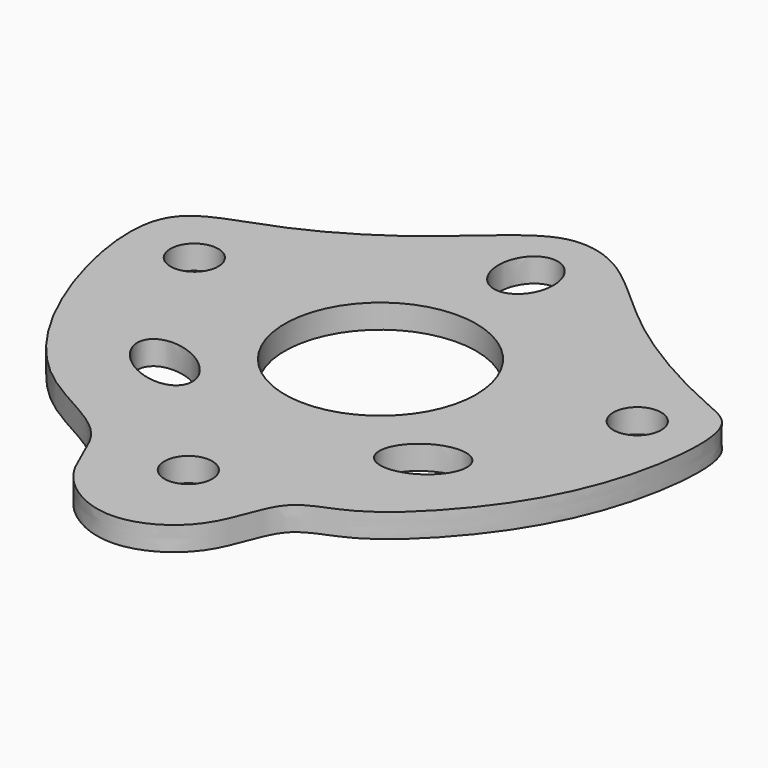
from build123d import *

# Parameters (mm, degrees)
F0_R     = 1.5
F0_R_2   = 6
F1_DEPTH = 1.5


with BuildPart() as f1:
    # F0 (on Top) → F1 (new body)
    with BuildSketch(Plane.XY):
        with BuildLine():
            add(Edge.make_bspline(
                [(-2.3267022334, 14.9153005332), (-1.5085056785, 15.4565862726), (-0.0063991641, 15.995741774), (3.3387975578, 15.0352009028), (7.763285894, 10.2048026915), (14.8261084048, 6.3961223389), (18.0552716431, 5.3766119055), (17.8387376181, -0.3263671627), (16.0331638639, -5.7186871098), (13.0165359137, -10.1104930304), (9.1672961277, -13.74283101), (5.4988394343, -14.4312782754), (4.7925366117, -19.3522546905), (-0.0020535861, -22.1144772656), (-4.8218763228, -19.1988757952), (-5.5103427163, -14.1975247892), (-11.9570720053, -12.0686217206), (-16.5966250402, -5.0670777642), (-18.4665149027, 2.6941835641), (-17.3183029389, 6.4041351377), (-12.417012349, 7.6520820301), (-6.707406419, 10.9668210753), (-3.5733471541, 14.0905706885), (-2.3267022334, 14.9153005332)],
                knots=[0, 0, 0, 0, 0.0333106805, 0.0702605349, 0.1252377538, 0.1856424631, 0.2212921883, 0.268356644, 0.3199428553, 0.3691049969, 0.4172799033, 0.4553121435, 0.4995590921, 0.5457761471, 0.5920892701, 0.6368331321, 0.6889771922, 0.7506246212, 0.8100608007, 0.8479630615, 0.8934469005, 0.9492461922, 1, 1, 1, 1], degree=3))
        make_face()
        with BuildLine():
            add(Edge.make_bspline(
                [(-5.8375806548, -8.1484792754), (-4.4659497256, -5.8320561838), (-8.4556369131, -5.0339357203), (-12.4453241006, -4.2358152568), (-9.8272678423, -7.3503588119), (-7.209211584, -10.464902367), (-5.8375806548, -8.1484792754)],
                knots=[0, 0, 0, 2.0943951024, 2.0943951024, 4.1887902048, 4.1887902048, 6.2831853072, 6.2831853072, 6.2831853072], degree=2, weights=[1, 0.5, 1, 0.5, 1, 0.5, 1]))
        make_face(mode=Mode.SUBTRACT)
        with Locations((0, -15.0488186628)):
            Circle(F0_R, mode=Mode.SUBTRACT)
        with BuildLine():
            add(Edge.make_bspline(
                [(6.2074386515, -8.2565061748), (7.7013252192, -10.6167800229), (10.0162094404, -7.4987226384), (12.3310936615, -4.3806652538), (8.5223228726, -5.1384487903), (4.7135520837, -5.8962323267), (6.2074386515, -8.2565061748)],
                knots=[0, 0, 0, 2.0943951024, 2.0943951024, 4.1887902048, 4.1887902048, 6.2831853072, 6.2831853072, 6.2831853072], degree=2, weights=[1, 0.5, 1, 0.5, 1, 0.5, 1]))
        make_face(mode=Mode.SUBTRACT)
        with Locations((-13.8321686536, 2.7105789632)):
            Circle(F0_R, mode=Mode.SUBTRACT)
        Circle(F0_R_2, mode=Mode.SUBTRACT)
        with Locations((13.9228608459, 2.7105789632)):
            Circle(F0_R, mode=Mode.SUBTRACT)
        with BuildLine():
            add(Edge.make_bspline(
                [(0, 9.2438794672), (2.9812304375, 9.2438794672), (1.4906152187, 12.4682285823), (0, 15.6925776973), (-1.4906152187, 12.4682285823), (-2.9812304375, 9.2438794672), (0, 9.2438794672)],
                knots=[0, 0, 0, 2.0943951024, 2.0943951024, 4.1887902048, 4.1887902048, 6.2831853072, 6.2831853072, 6.2831853072], degree=2, weights=[1, 0.5, 1, 0.5, 1, 0.5, 1]))
        make_face(mode=Mode.SUBTRACT)
    extrude(amount=F1_DEPTH)


solid = f1.part
